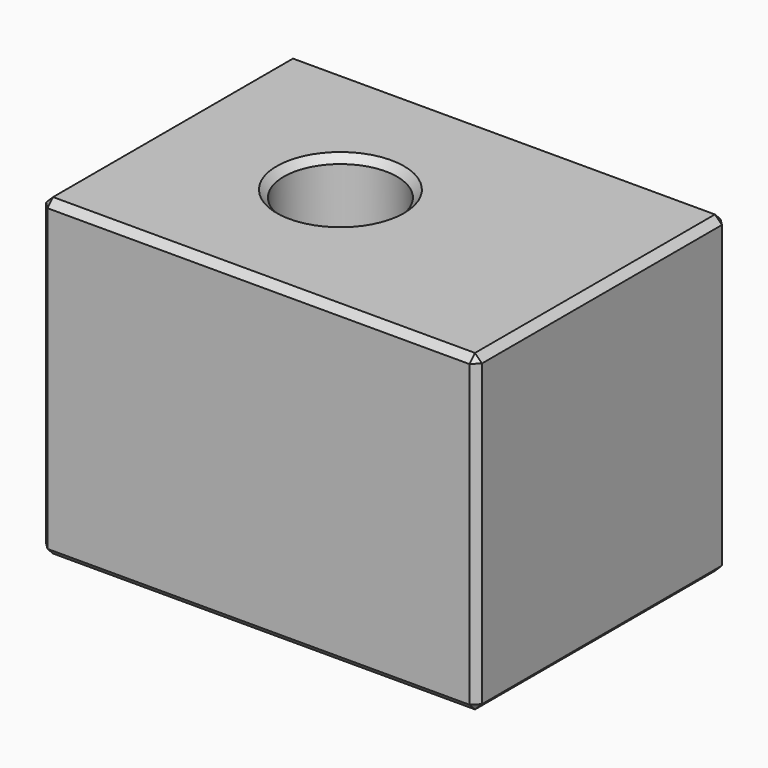
from build123d import *

# Parameters (mm, degrees)
SKETCH_W        = 25
SKETCH_H        = 18
PAD_DEPTH       = 18
SKETCH001_R     = 2.5
POCKET_DEPTH    = 4
SKETCH002_R     = 3.25
POCKET001_DEPTH = 8.5
SKETCH003_R     = 3.25
POCKET002_DEPTH = 8.5
CHAMFER_SIZE    = 0.4


with BuildPart() as part:
    # Sketch → Pad (new body)
    with BuildSketch(Plane.XY):
        with Locations((22.5, 0)):
            Rectangle(SKETCH_W, SKETCH_H)
    extrude(amount=PAD_DEPTH)

    # Sketch001 (on Face5 of Pad) → Pocket (cut)
    with BuildSketch(Plane(origin=(0, 0, 0), x_dir=(1, 0, 0), z_dir=(0, 0, -1))):
        with Locations((15, 0)):
            Circle(SKETCH001_R)
    extrude(amount=-POCKET_DEPTH, mode=Mode.SUBTRACT)

    # Sketch002 (on Face4 of Pocket) → Pocket001 (cut)
    with BuildSketch(Plane(origin=(0, 0, 0), x_dir=(1, 0, 0), z_dir=(0, 0, -1))):
        with Locations((28, 0)):
            Circle(SKETCH002_R)
    extrude(amount=-POCKET001_DEPTH, mode=Mode.SUBTRACT)

    # Sketch003 (on Face5 of Pocket001) → Pocket002 (cut)
    with BuildSketch(Plane.XY.offset(18)):
        with Locations((20, 0)):
            Circle(SKETCH003_R)
    extrude(amount=-POCKET002_DEPTH, mode=Mode.SUBTRACT)

    # Chamfer
    chamfer_edges = [part.edges().sort_by_distance(p)[0] for p in [
        (22.5, 9, 18),
        (10, 0, 18),
        (35, 0, 18),
        (22.5, -9, 18),
        (16.75, 0, 18),
        (10, -9, 9),
        (10, 9, 9),
        (10, 0, 0),
        (35, -9, 9),
        (22.5, -9, 0),
        (22.5, 9, 0),
        (35, 0, 0),
        (24.75, 0, 0),
        (12.5, 0, 0),
        (35, 9, 9),
    ]]
    chamfer(chamfer_edges, length=CHAMFER_SIZE)


solid = part.part
